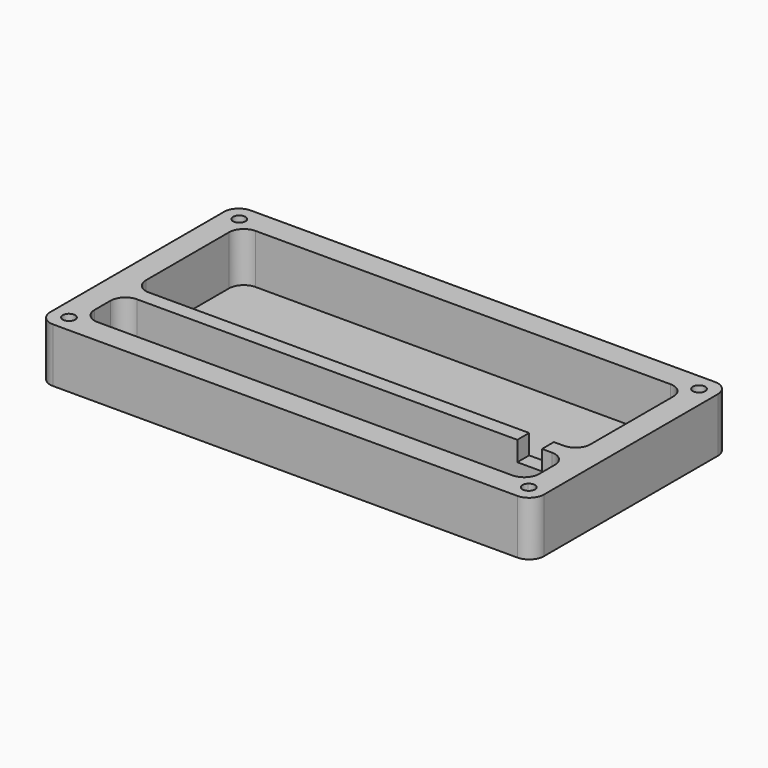
from build123d import *

# Parameters (mm, degrees)
F0_W      = 100
F0_H      = 50
F1_DEPTH  = 1
F2_W      = 100
F2_H      = 50
F2_W_2    = 90
F2_H_2    = 40
F3_DEPTH  = 10
F4_W      = 90
F4_H      = 3
F5_DEPTH  = 11
F6_W      = 5
F6_H      = 4
F7_DEPTH  = 3
F8_R      = 3
F9_R      = 1.25
F10_DEPTH = 6


with BuildPart() as f1:
    # F0 (on Top) → F1 (new body)
    with BuildSketch(Plane.XY):
        Rectangle(F0_W, F0_H)
    extrude(amount=F1_DEPTH)

    # F2 (on face) → F3 (join)
    with BuildSketch(Plane.XY.offset(1)):
        Rectangle(F2_W, F2_H)
        Rectangle(F2_W_2, F2_H_2, mode=Mode.SUBTRACT)
        Rectangle(F2_W, F2_H)
        Rectangle(F2_W_2, F2_H_2, mode=Mode.SUBTRACT)
    extrude(amount=F3_DEPTH)

    # F4 (on Top) → F5 (join, through all)
    with BuildSketch(Plane.XY):
        with Locations((0, -8.5)):
            Rectangle(F4_W, F4_H)
    extrude(amount=F5_DEPTH)

    # F6 (on face) → F7 (cut, through all)
    with BuildSketch(Plane(origin=(0, -7, 0), x_dir=(-1, 0, 0), z_dir=(0, 1, 0))):
        with Locations((-37.5, 9)):
            Rectangle(F6_W, F6_H)
    extrude(amount=-F7_DEPTH, mode=Mode.SUBTRACT)

    # F8
    f8_edges = [f1.edges().sort_by_distance(p)[0] for p in [
        (50, -25, 5.5),
        (50, 25, 5.5),
        (-50, -25, 5.5),
        (-50, 25, 5.5),
        (45, -20, 6),
        (-45, -20, 6),
        (45, 20, 6),
        (-45, 20, 6),
        (45, -7, 6),
        (-45, -7, 6),
        (45, -10, 6),
        (-45, -10, 6),
    ]]
    fillet(f8_edges, radius=F8_R)

    # F9 (on face) → F10 (cut)
    with BuildSketch(Plane.XY.offset(11)):
        with BuildLine():
            ThreePointArc((46.556349, -22.806349), (47.440233, -22.440233), (47.806349, -21.556349))
            ThreePointArc((47.806349, -21.556349), (47.034703, -20.4015), (45.672466, -20.672466))
            Line((45.672466, -20.672466), (46.556349, -21.556349))
            Line((46.556349, -21.556349), (46.556349, -22.806349))
        make_face()
        with BuildLine():
            Line((46.556349, -21.556349), (45.672466, -20.672466))
            ThreePointArc((45.672466, -20.672466), (45.4015, -22.034703), (46.556349, -22.806349))
            Line((46.556349, -22.806349), (46.556349, -21.556349))
        make_face()
        with Locations((-46.556349, -21.556349)):
            Circle(F9_R)
        with Locations((-46.556349, 21.556349)):
            Circle(F9_R)
        with Locations((46.556349, 21.556349)):
            Circle(F9_R)
    extrude(amount=-F10_DEPTH, mode=Mode.SUBTRACT)


solid = f1.part
